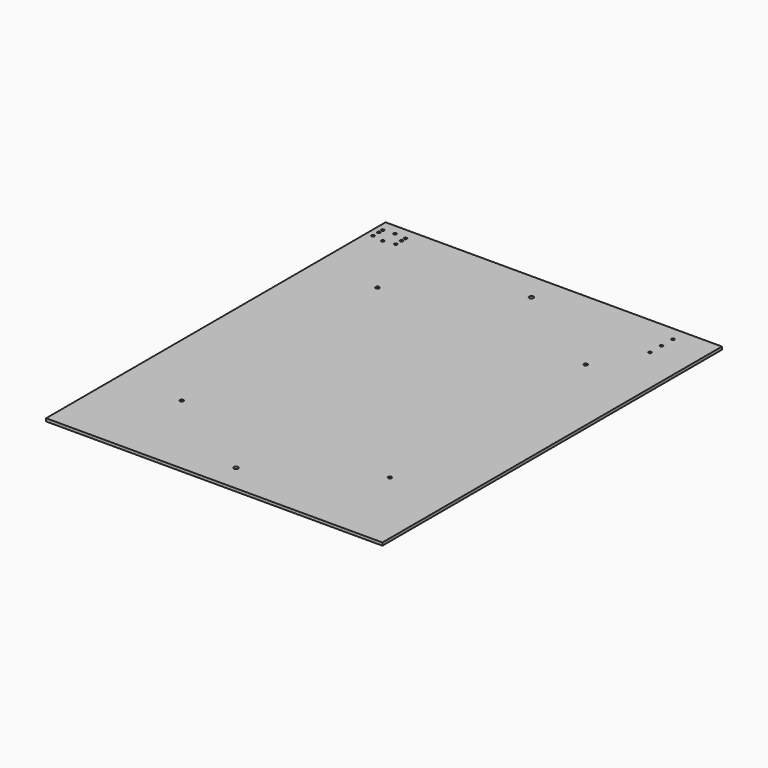
from build123d import *

# Parameters (mm, degrees)
SKETCH_R            = 2
SKETCH_R_2          = 3
SKETCH_R_3          = 2.5
EXTRUDE_DEPTH       = 20
BOX_W               = 470
BOX_H               = 4
BOX_DEPTH           = 593
CUT_PLACEMENT_ANGLE = 270


with BuildPart() as extrude_body:
    # Sketch → Extrude (new body)
    with BuildSketch(Plane.XZ):
        with Locations((-225.865, 576.71)):
            Circle(SKETCH_R)
        with Locations((-225.865, 569.71)):
            Circle(SKETCH_R)
        with Locations((-225.865, 559.56)):
            Circle(SKETCH_R)
        with Locations((-210, 556.6)):
            Circle(SKETCH_R)
        with Locations((-210, 578.1)):
            Circle(SKETCH_R)
        with Locations((-194.115, 576.71)):
            Circle(SKETCH_R)
        with Locations((-194.115, 569.71)):
            Circle(SKETCH_R)
        with Locations((-194.115, 559.56)):
            Circle(SKETCH_R)
        with Locations((0, 38)):
            Circle(SKETCH_R_2)
        with Locations((0, 554)):
            Circle(SKETCH_R_2)
        with Locations((182.5, 573)):
            Circle(SKETCH_R)
        with Locations((182.5, 553)):
            Circle(SKETCH_R)
        with Locations((182.5, 533)):
            Circle(SKETCH_R)
        with Locations((145.475, 466.9)):
            Circle(SKETCH_R_3)
        with Locations((-145.475, 466.9)):
            Circle(SKETCH_R_3)
        with Locations((-145.475, 125.1)):
            Circle(SKETCH_R_3)
        with Locations((145.475, 125.1)):
            Circle(SKETCH_R_3)
    extrude(amount=EXTRUDE_DEPTH)


with BuildPart() as extrude_body_1:
    # Extrude placement: moved
    add(extrude_body.part.moved(Location((0, 13, 0))))


with BuildPart() as base_holecut:
    # Box → Box (new body)
    with BuildSketch(Plane(origin=(-235, 0, 0), x_dir=(1, 0, 0), z_dir=(0, 0, 1))):
        with Locations((235, 2)):
            Rectangle(BOX_W, BOX_H)
    extrude(amount=BOX_DEPTH)

    # Cut: cut Extrude body
    add(extrude_body_1.part, mode=Mode.SUBTRACT)


with BuildPart() as base_holecut_1:
    # Cut placement: moved
    add(base_holecut.part.rotate(Axis((0, 0, 0), (1, 0, 0)), CUT_PLACEMENT_ANGLE))


solid = base_holecut_1.part
